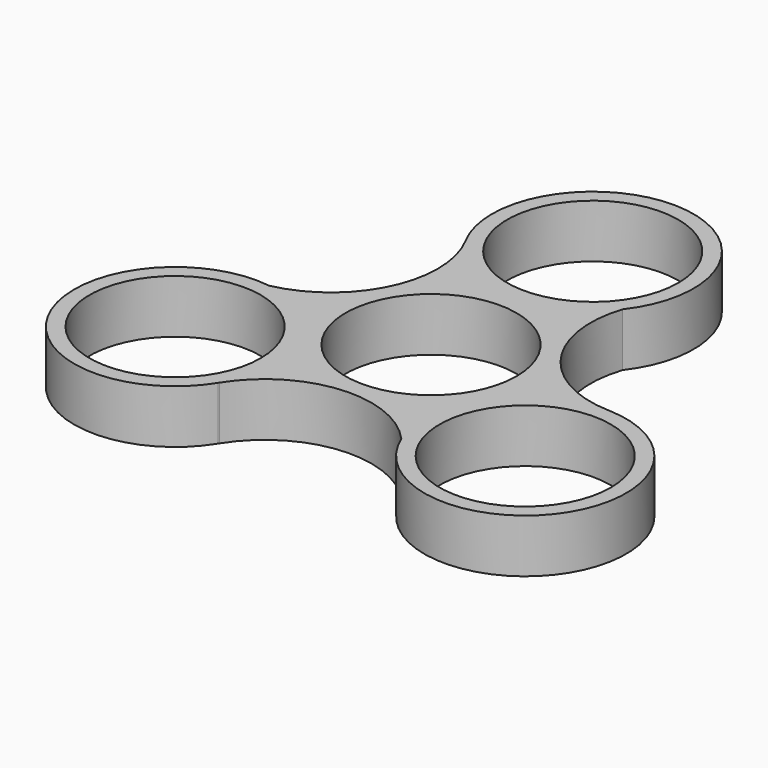
from build123d import *

# Parameters (mm, degrees)
F0_R     = 11.2
F1_DEPTH = 7


with BuildPart() as f1:
    # F0 (on Top) → F1 (new body)
    with BuildSketch(Plane.XY):
        with BuildLine():
            ThreePointArc((23.196496, -0.02835), (12.212794, 5.956709), (10.410379, 18.334671))
            ThreePointArc((10.410379, 18.334671), (1.148476, 39.600279), (-11.65963, 20.262199))
            ThreePointArc((-11.65963, 20.262199), (-11.616405, 20.182704), (-11.573696, 20.10293))
            ThreePointArc((-11.573696, 20.10293), (-11.265058, 7.598235), (-21.083481, -0.151683))
            ThreePointArc((-21.083481, -0.151683), (-34.869086, -18.80553), (-11.717765, -20.228635))
            ThreePointArc((-11.717765, -20.228635), (-11.670532, -20.151454), (-11.6228, -20.07458))
            ThreePointArc((-11.6228, -20.07458), (-0.947736, -13.554944), (10.673102, -18.182988))
            ThreePointArc((10.673102, -18.182988), (33.720609, -20.794749), (23.377394, -0.033564))
            ThreePointArc((23.377394, -0.033564), (23.286937, -0.03125), (23.196496, -0.02835))
        make_face()
        with Locations((-22.906663, -13.225168)):
            Circle(F0_R, mode=Mode.SUBTRACT)
        with Locations((22.906663, -13.225168)):
            Circle(F0_R, mode=Mode.SUBTRACT)
        Circle(F0_R, mode=Mode.SUBTRACT)
        with Locations((0, 26.450336)):
            Circle(F0_R, mode=Mode.SUBTRACT)
    extrude(amount=F1_DEPTH)


solid = f1.part
